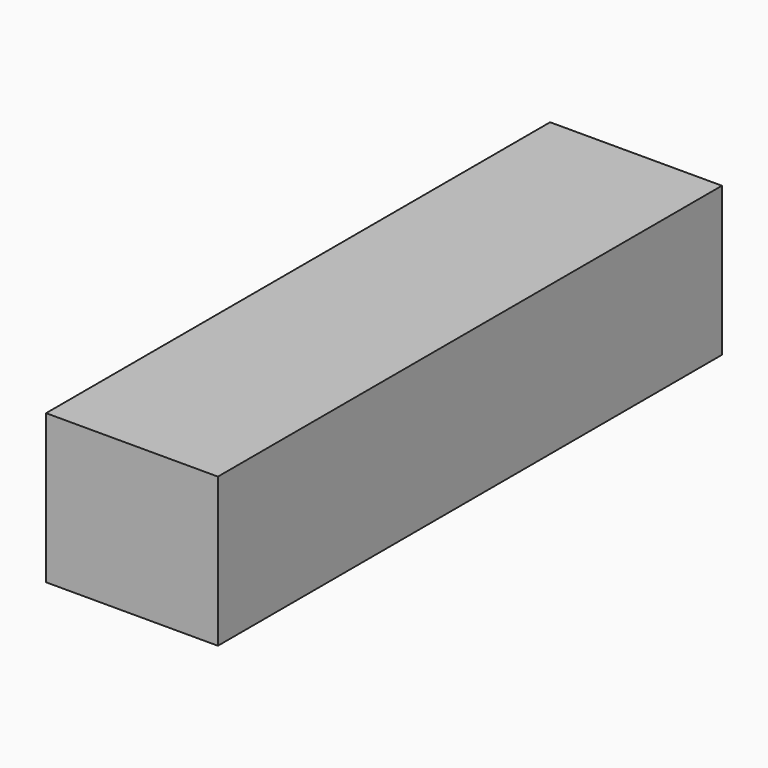
from build123d import *

# Parameters (mm, degrees)
BOX_W     = 30
BOX_H     = 110
BOX_DEPTH = 26


with BuildPart() as part:
    # Box → Box (new body)
    with BuildSketch(Plane.XY):
        with Locations((15, 55)):
            Rectangle(BOX_W, BOX_H)
    extrude(amount=BOX_DEPTH)


solid = part.part
